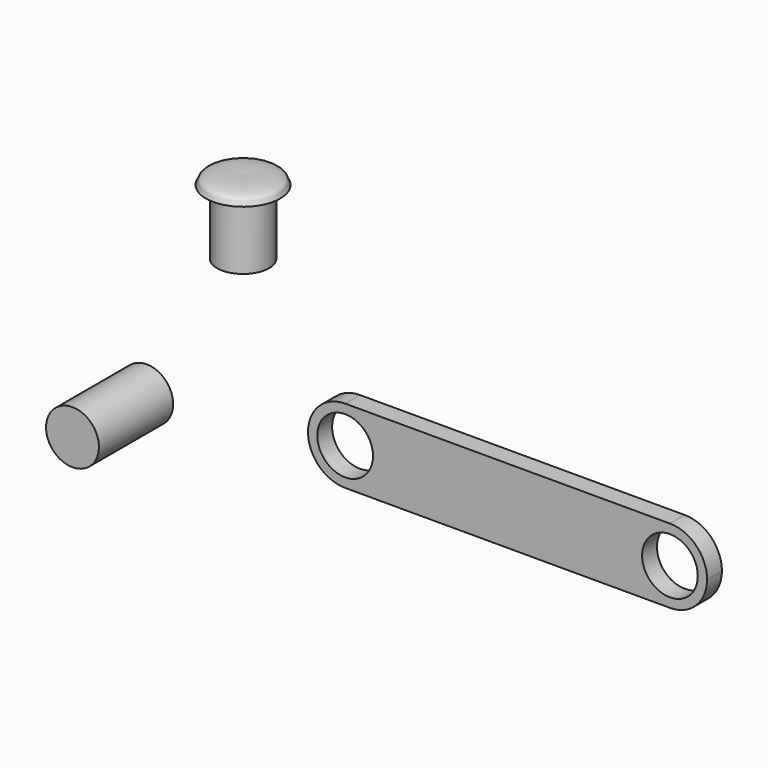
from build123d import *

# Parameters (mm, degrees)
F0_R     = 3.6195
F1_DEPTH = 12.7
F0_R_2   = 3.81
F2_DEPTH = 2.54
F3_W     = 3.556
F3_H     = 8.89


with BuildPart() as f1:
    # F0 (on Front) → F1 (new body)
    with BuildSketch(Plane.XZ):
        with Locations((-983.1210970879, 469.8895514011)):
            Circle(F0_R)
    extrude(amount=F1_DEPTH)


with BuildPart() as f2:
    # F0 (on Front) → F2 (new body)
    with BuildSketch(Plane.XZ):
        with BuildLine():
            ThreePointArc((-948.8590052986, 474.2197547722), (-950.3469028502, 477.8118572206), (-953.9390052986, 479.2997547722))
            ThreePointArc((-953.9390052986, 479.2997547722), (-957.531107747, 477.8118572206), (-959.0190052986, 474.2197547722))
            ThreePointArc((-959.0190052986, 474.2197547722), (-957.531107747, 470.6276523238), (-953.9390052986, 469.1397547722))
            ThreePointArc((-953.9390052986, 469.1397547722), (-950.3469028502, 470.6276523238), (-948.8590052986, 474.2197547722))
        make_face()
        with Locations((-953.9390052986, 474.2197547722)):
            Circle(F0_R_2, mode=Mode.SUBTRACT)
        with BuildLine():
            ThreePointArc((-904.4090052986, 474.2197547722), (-905.8969028502, 477.8118572206), (-909.4890052986, 479.2997547722))
            ThreePointArc((-909.4890052986, 479.2997547722), (-914.5690052986, 474.2197547722), (-909.4890052986, 469.1397547722))
            ThreePointArc((-909.4890052986, 469.1397547722), (-905.8969028502, 470.6276523238), (-904.4090052986, 474.2197547722))
        make_face()
        with Locations((-909.4890052986, 474.2197547722)):
            Circle(F0_R_2, mode=Mode.SUBTRACT)
        with BuildLine():
            Line((-909.4890052986, 479.2997547722), (-953.9390052986, 479.2997547722))
            ThreePointArc((-953.9390052986, 479.2997547722), (-950.3469028502, 477.8118572206), (-948.8590052986, 474.2197547722))
            ThreePointArc((-948.8590052986, 474.2197547722), (-950.3469028502, 470.6276523238), (-953.9390052986, 469.1397547722))
            Line((-953.9390052986, 469.1397547722), (-909.4890052986, 469.1397547722))
            ThreePointArc((-909.4890052986, 469.1397547722), (-914.5690052986, 474.2197547722), (-909.4890052986, 479.2997547722))
        make_face()
    extrude(amount=F2_DEPTH)


with BuildPart() as f4:
    # F3 (on Front) → F4 (revolve)
    with BuildSketch(Plane.XZ):
        with Locations((-968.1593871795, 494.9707962078)):
            Rectangle(F3_W, F3_H)
        with BuildLine():
            Line((-969.9373871795, 500.6857962078), (-969.9373871795, 499.4157962078))
            Line((-969.9373871795, 499.4157962078), (-966.3813871795, 499.4157962078))
            Line((-966.3813871795, 499.4157962078), (-964.8573871795, 499.4157962078))
            add(Edge.make_bspline(
                [(-969.9373871795, 500.6857962078), (-969.1245044775, 500.7170094046), (-967.6671861669, 500.7566544174), (-964.9724624884, 500.4477607725), (-965.0309068325, 499.6556125528), (-964.8573871795, 499.4157962078)],
                knots=[0, 0, 0, 0, 0.3910652847, 0.7717389314, 1, 1, 1, 1], degree=3))
        make_face()
    revolve(axis=Axis((-969.9373871795, 0, 500.0507962078), (0, 0, 1)))


solid = Compound([f1.part, f2.part, f4.part])
